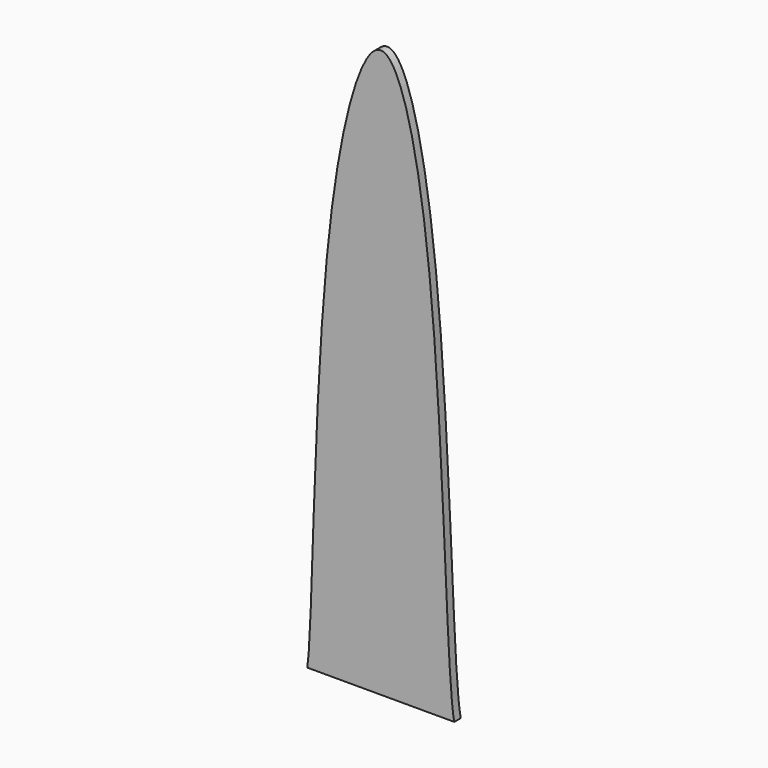
from build123d import *

# Parameters (mm, degrees)
F1_DEPTH = 2.54


with BuildPart() as f1:
    # F0 (on Front) → F1 (new body)
    with BuildSketch(Plane.XZ):
        with BuildLine():
            add(Edge.make_bspline(
                [(-23.0378, 0), (-21.1415680996, 11.2843610333), (-21.4264647608, 125.0622971054), (0.3392668624, 198.5116730982), (19.5894024335, 124.9320581465), (20.5107076384, 11.2112977947), (23.0458555272, 0)],
                knots=[0, 0, 0, 0, 0.3038411362, 0.5002243392, 0.6960845462, 1, 1, 1, 1], degree=3))
            Line((-23.0378, 0), (23.0458555272, 0))
        make_face()
    extrude(amount=F1_DEPTH)


solid = f1.part
